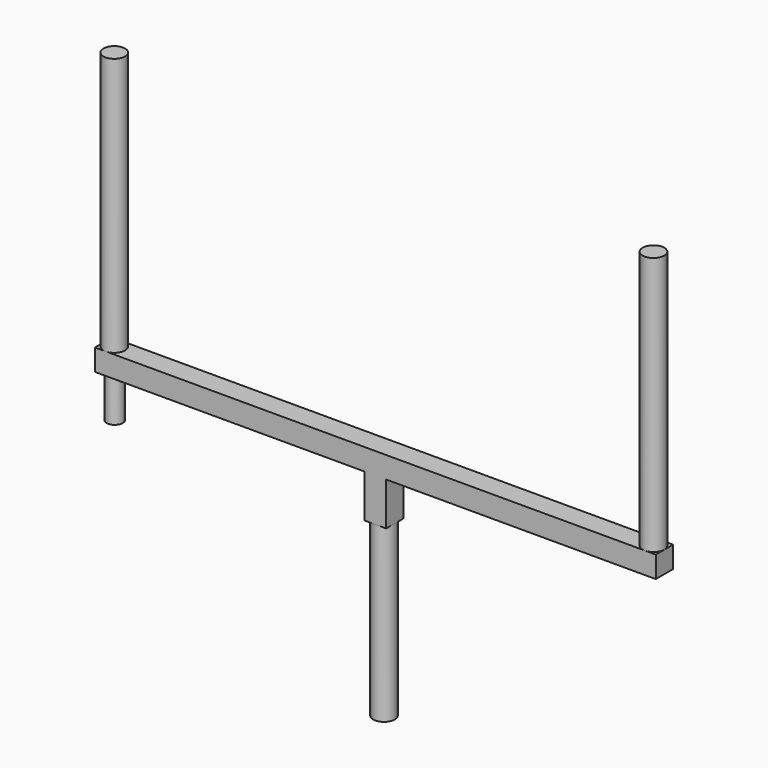
from build123d import *

# Parameters (mm, degrees)
F0_R     = 6.35
F1_DEPTH = 152.4
F2_W     = 330.2
F2_H     = 12.7
F3_DEPTH = 12.7
F5_R     = 4.7625
F6_DEPTH = 25.4
F4_W     = 12.7
F4_H     = 12.7
F7_DEPTH = 25.4
F8_R     = 6.35
F9_DEPTH = 101.6


with BuildPart() as f1:
    # F0 (on Top) → F1 (new body)
    with BuildSketch(Plane.XY):
        with Locations((261.65836, 23.913959)):
            Circle(F0_R)
        with Locations((-55.84164, 23.913959)):
            Circle(F0_R)
    extrude(amount=F1_DEPTH)


with BuildPart() as f3:
    # F2 (on face) → F3 (new body)
    with BuildSketch(Plane(origin=(0, 0, 0), x_dir=(1, 0, 0), z_dir=(0, 0, -1))):
        with Locations((102.948088, -23.964958)):
            Rectangle(F2_W, F2_H)
    extrude(amount=F3_DEPTH)

    # F5 (on face) → F6 (join)
    with BuildSketch(Plane(origin=(0, 0, -12.7), x_dir=(1, 0, 0), z_dir=(0, 0, -1))):
        with Locations((-55.615186, -23.903887)):
            Circle(F5_R)
    extrude(amount=F6_DEPTH)

    # F4 (on face) → F7 (join)
    with BuildSketch(Plane(origin=(0, 0, -12.7), x_dir=(1, 0, 0), z_dir=(0, 0, -1))):
        with Locations((102.948088, -23.964958)):
            Rectangle(F4_W, F4_H)
    extrude(amount=F7_DEPTH)

    # F8 (on face) → F9 (join)
    with BuildSketch(Plane(origin=(0, 0, -38.1), x_dir=(1, 0, 0), z_dir=(0, 0, -1))):
        with Locations((102.948088, -23.964958)):
            Circle(F8_R)
    extrude(amount=F9_DEPTH)


solid = Compound([f1.part, f3.part])
